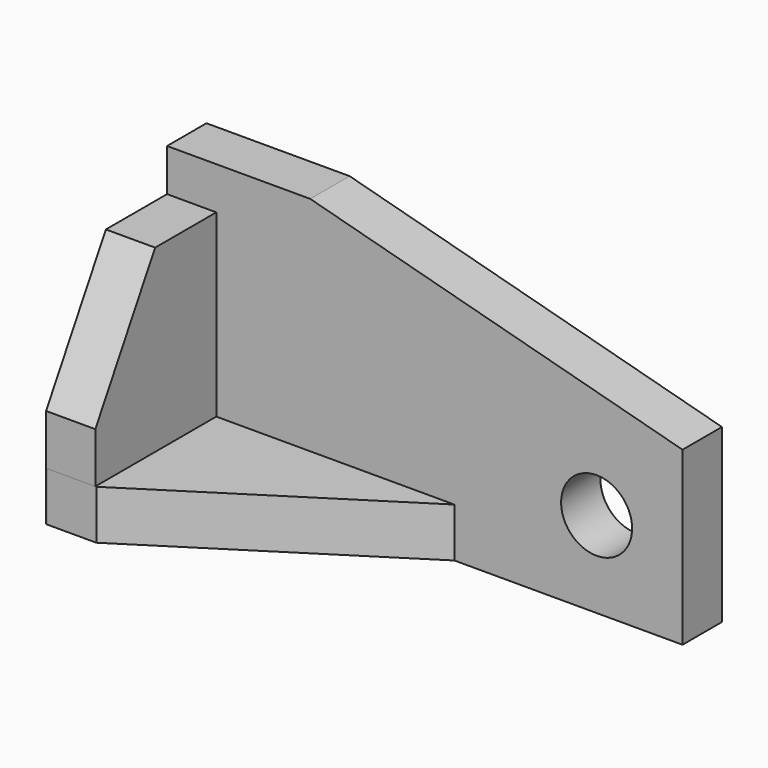
from build123d import *

# Parameters (mm, degrees)
F4_DEPTH = 10.922
F5_DEPTH = 10.922
F6_DEPTH = 10.922
F7_D     = 15.748


with BuildPart() as f4:
    # F0 (on Front) → F4 (new body)
    with BuildSketch(Plane.XZ):
        Polygon((-45.2434888466, 60.198), (-45.2434888466, 0), (50.0065111534, 0), (69.0565111534, 0), (69.0565111534, 19.05), (69.0565111534, 38.0787941648), (-13.4934888466, 60.198), align=None)
    extrude(amount=F4_DEPTH)

    # F2 (on line) → F5 (join)
    with BuildSketch(Plane(origin=(-45.2434888466, 0, 0), x_dir=(0, -1, 0), z_dir=(-1, 0, 0))):
        Polygon((0, 50.8), (0, 0), (44.45, 0), (44.45, 22.098), (27.8788925737, 50.8), align=None)
    extrude(amount=-F5_DEPTH)

    # F3 (on Top) → F6 (join)
    with BuildSketch(Plane.XY):
        Polygon((18.4638462961, -0.0006605927), (-45.0361537039, -0.0006605927), (-45.0361537039, -44.4506605927), (-34.1141537039, -44.4506605927), (18.4638462961, -10.9226605927), align=None)
    extrude(amount=F6_DEPTH)

    # F7 (through all)
    with Locations(Plane(origin=(0, 0, 0), x_dir=(1, 0, 0), z_dir=(0, 1, 0))):
        with Locations((50.0065111534, -19.05)):
            Hole(F7_D / 2)


solid = f4.part
